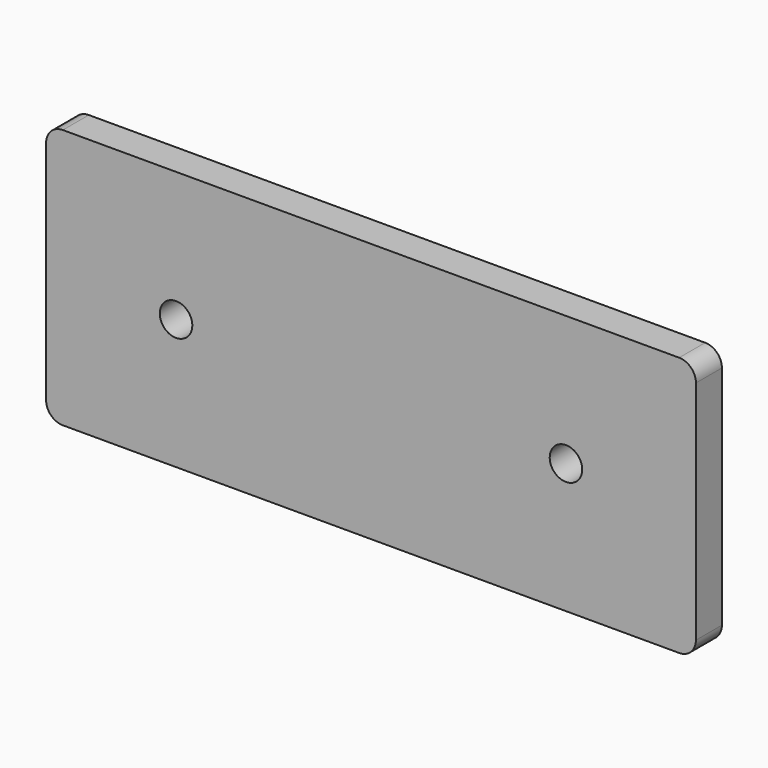
from build123d import *

# Parameters (mm, degrees)
F0_W     = 254
F0_H     = 101.6
F1_DEPTH = 12.7
F2_R     = 6.5532
F3_D     = 12.7


with BuildPart() as f1:
    # F0 (on Front) → F1 (new body)
    with BuildSketch(Plane.XZ):
        with Locations((-0.76200068, -8.045138209)):
            Rectangle(F0_W, F0_H)
    extrude(amount=F1_DEPTH)

    # F2
    f2_edges = [f1.edges().sort_by_distance(p)[0] for p in [
        (-127.762001, -6.35, 42.754862),
        (-127.762001, -6.35, -58.845138),
        (126.237999, -6.35, -58.845138),
        (126.237999, -6.35, 42.754862),
    ]]
    fillet(f2_edges, radius=F2_R)

    # F3 (through all)
    with Locations(Plane(origin=(0, 0, 0), x_dir=(1, 0, 0), z_dir=(0, 1, 0))):
        with Locations((-76.96200068, 8.045138209), (75.43799932, 8.045138209)):
            Hole(F3_D / 2)


solid = f1.part
